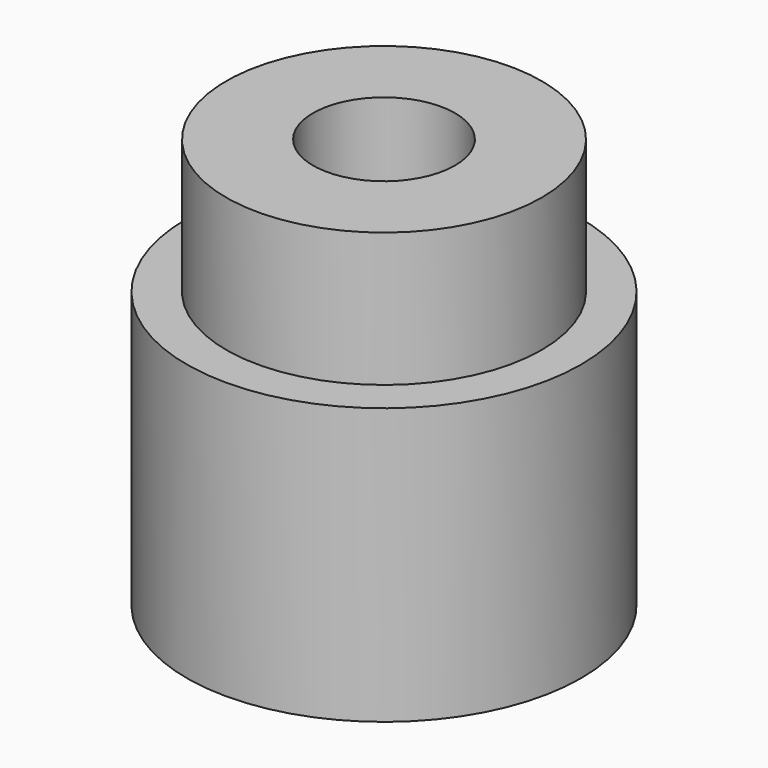
from build123d import *

# Parameters (mm, degrees)
CYLINDER031_R     = 0.9
CYLINDER031_DEPTH = 10
CYLINDER029_R     = 2.5
CYLINDER029_DEPTH = 3.5
CYLINDER030_R     = 2
CYLINDER030_DEPTH = 5.2


with BuildPart() as cylinder031:
    # Cylinder031 → Cylinder031 (new body)
    with BuildSketch(Plane.XY):
        Circle(CYLINDER031_R)
    extrude(amount=CYLINDER031_DEPTH)


with BuildPart() as cylinder029:
    # Cylinder029 → Cylinder029 (new body)
    with BuildSketch(Plane.XY):
        Circle(CYLINDER029_R)
    extrude(amount=CYLINDER029_DEPTH)


with BuildPart() as obj1:
    # Cylinder030 → Cylinder030 (new body)
    with BuildSketch(Plane.XY):
        Circle(CYLINDER030_R)
    extrude(amount=CYLINDER030_DEPTH)

    # Fusion018: union Cylinder029
    add(cylinder029.part)

    # Cut007: cut Cylinder031
    add(cylinder031.part, mode=Mode.SUBTRACT)


solid = obj1.part
